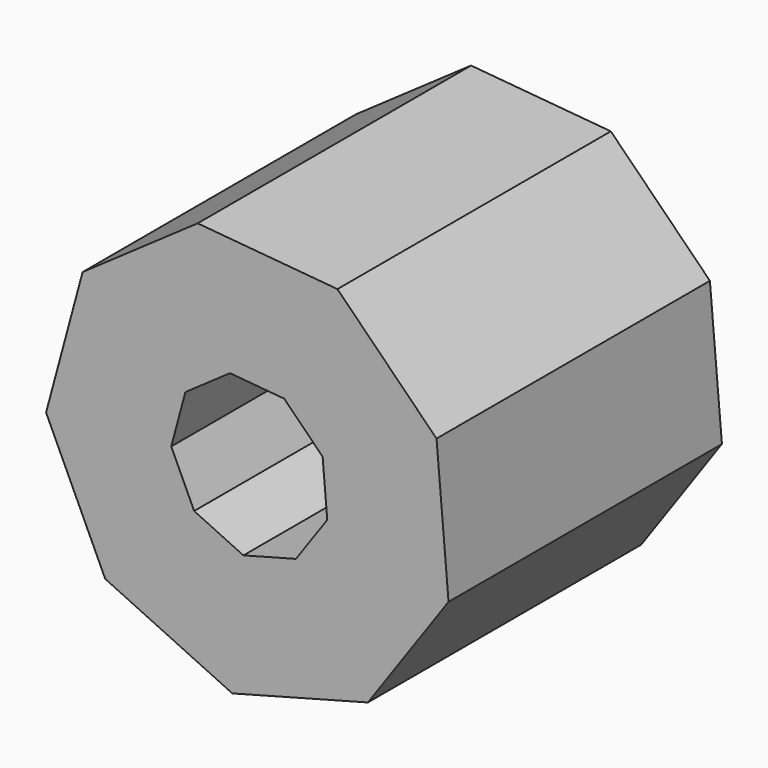
from build123d import *

# Parameters (mm, degrees)
F1_DEPTH = 147.066
F2_T     = -50.8


with BuildPart() as f1:
    # F0 (on Front) → F1 (new body)
    with BuildSketch(Plane.XZ):
        Polygon((-87.962036, -7.561638), (-62.522302, -62.333458), (-7.827687, -87.93876), (50.529589, -72.396539), (85.243509, -22.979173), (80.071044, 37.190404), (37.432448, 79.958177), (-22.721207, 85.312631), (-72.243357, 50.748356), align=None)
    extrude(amount=F1_DEPTH)

    # F2
    f2_openings = [f1.faces().sort_by_distance(p)[0] for p in [
        (0, -147.066, 0),
    ]]
    offset(amount=F2_T, openings=f2_openings)


solid = f1.part
